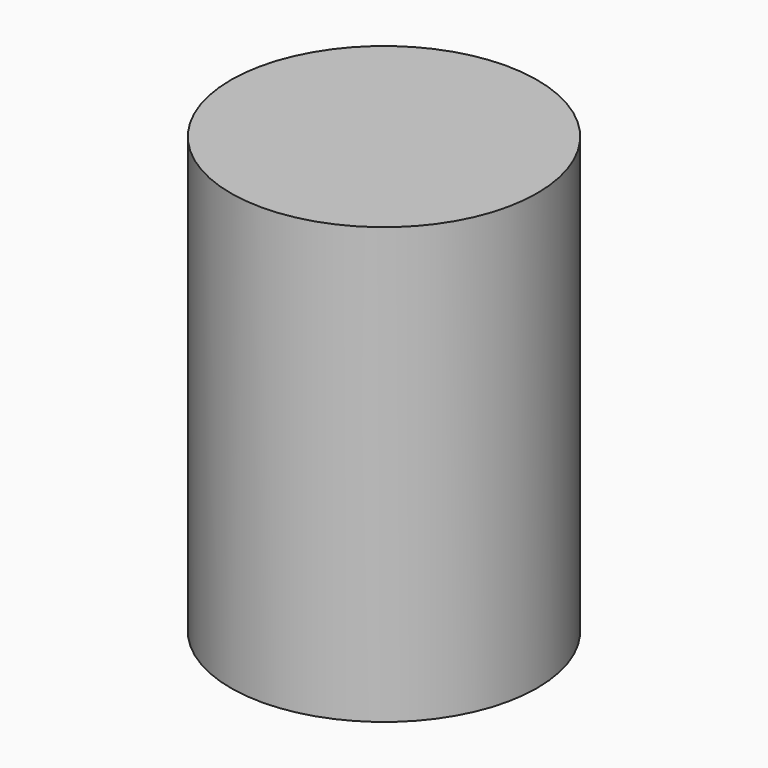
from build123d import *

# Parameters (mm, degrees)
SKETCH_R        = 4.925
PAD_DEPTH       = 14
SKETCH002_R     = 4.175
PAD001_DEPTH    = 9.85
SKETCH003_R     = 1.5
POCKET001_DEPTH = 9.851
CHAMFER001_SIZE = 1
SKETCH004_R     = 4.175
PAD002_DEPTH    = 9.85


with BuildPart() as large:
    # Sketch (on XY_Plane of Origin) → Pad (new body)
    with BuildSketch(Plane.XY):
        Circle(SKETCH_R)
    extrude(amount=PAD_DEPTH)


with BuildPart() as small:
    # Sketch002 (on XY_Plane001 of Origin002) → Pad001 (new body)
    with BuildSketch(Plane.XY):
        Circle(SKETCH002_R)
    extrude(amount=PAD001_DEPTH)

    # Sketch003 (on Face3 of Pad001) → Pocket001 (cut, through all)
    with BuildSketch(Plane.XY.offset(9.85)):
        Circle(SKETCH003_R)
    extrude(amount=-POCKET001_DEPTH, mode=Mode.SUBTRACT)

    # Chamfer001
    chamfer001_edges = [small.edges().sort_by_distance(p)[0] for p in [
        (-1.5, 0, 9.85),
    ]]
    chamfer(chamfer001_edges, length=CHAMFER001_SIZE)


with BuildPart() as small001:
    # Sketch004 (on XY_Plane001 of Origin004) → Pad002 (new body)
    with BuildSketch(Plane.XY):
        Circle(SKETCH004_R)
    extrude(amount=PAD002_DEPTH)


solid = Compound([large.part, small.part, small001.part])
